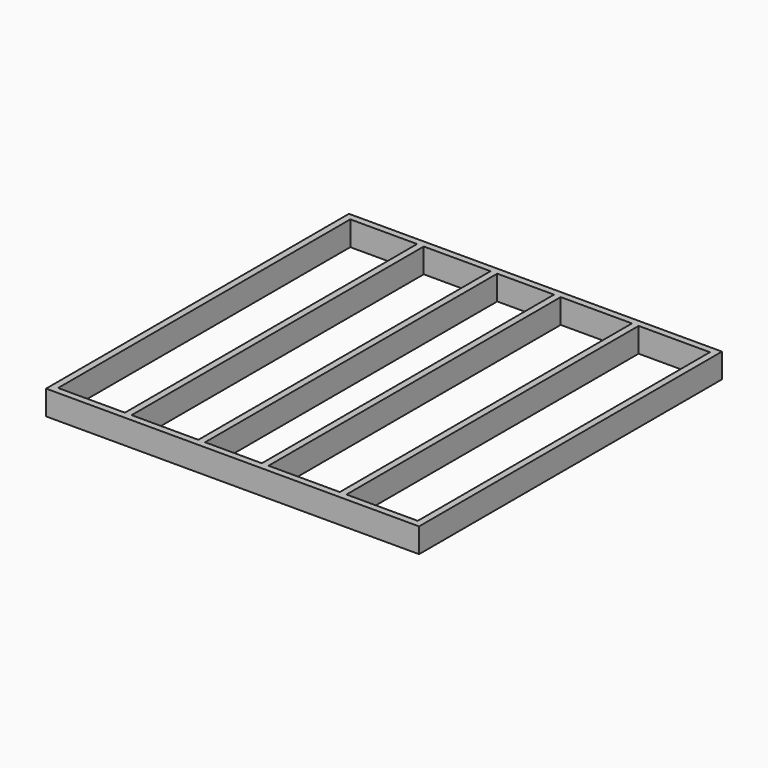
from build123d import *

# Parameters (mm, degrees)
F0_W     = 2127.25
F0_H     = 2159
F0_W_2   = 381
F0_H_2   = 2082.8
F0_W_3   = 323.85
F0_W_4   = 406.4
F1_DEPTH = 139.7


with BuildPart() as f1:
    # F0 (on Top) → F1 (new body)
    with BuildSketch(Plane.XY):
        with Locations((1063.625, -1079.5)):
            Rectangle(F0_W, F0_H)
        with Locations((228.6, -1079.5)):
            Rectangle(F0_W_2, F0_H_2, mode=Mode.SUBTRACT)
        with Locations((647.7, -1079.5)):
            Rectangle(F0_W_2, F0_H_2, mode=Mode.SUBTRACT)
        with Locations((1038.225, -1079.5)):
            Rectangle(F0_W_3, F0_H_2, mode=Mode.SUBTRACT)
        with Locations((1441.45, -1079.5)):
            Rectangle(F0_W_4, F0_H_2, mode=Mode.SUBTRACT)
        with Locations((1885.95, -1079.5)):
            Rectangle(F0_W_4, F0_H_2, mode=Mode.SUBTRACT)
    extrude(amount=-F1_DEPTH)


solid = f1.part
